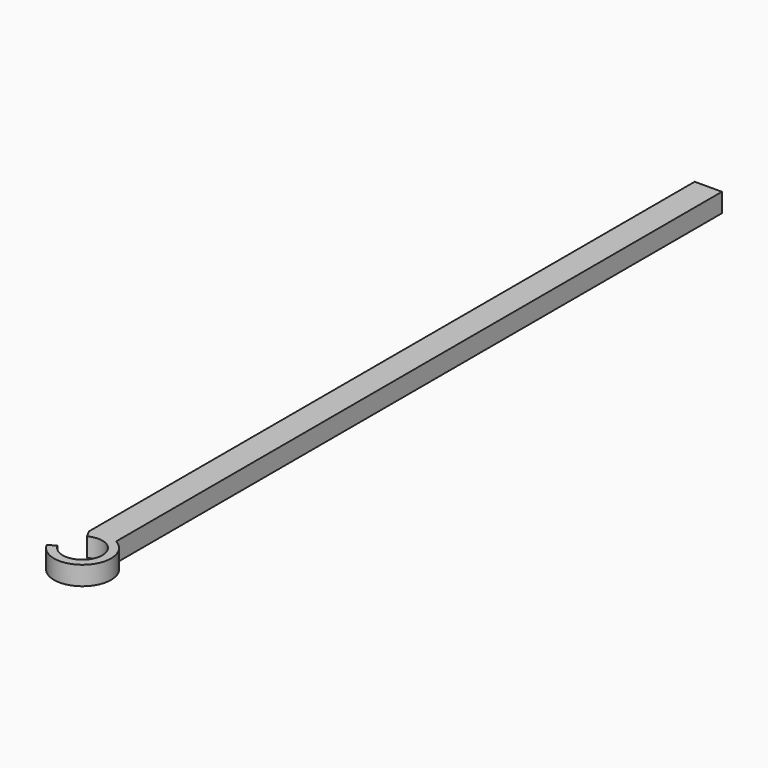
from build123d import *

# Parameters (mm, degrees)
F1_DEPTH = 1.5


with BuildPart() as f1:
    # F0 (on Top) → F1 (new body)
    with BuildSketch(Plane.XY):
        with BuildLine():
            ThreePointArc((1.07794, 1.985016), (0, 2.258814), (-1.07794, 1.985016))
            Line((-1.07794, 1.985016), (1.07794, 1.985016))
        make_face()
        with BuildLine():
            Line((-1.07794, 61.985016), (-1.07794, 1.985016))
            ThreePointArc((-1.07794, 1.985016), (0, 2.258814), (1.07794, 1.985016))
            Line((1.07794, 1.985016), (1.07794, 61.985016))
            Line((1.07794, 61.985016), (-1.07794, 61.985016))
        make_face()
        with BuildLine():
            Line((-1.07794, 1.985016), (-0.752117, 1.385016))
            ThreePointArc((-0.752117, 1.385016), (1.508897, -0.455166), (-1.392554, -0.738066))
            Line((-1.392554, -0.738066), (-1.99582, -1.057802))
            ThreePointArc((-1.99582, -1.057802), (1.589123, -1.605282), (1.07794, 1.985016))
            Line((1.07794, 1.985016), (-1.07794, 1.985016))
        make_face()
    extrude(amount=F1_DEPTH)


solid = f1.part
